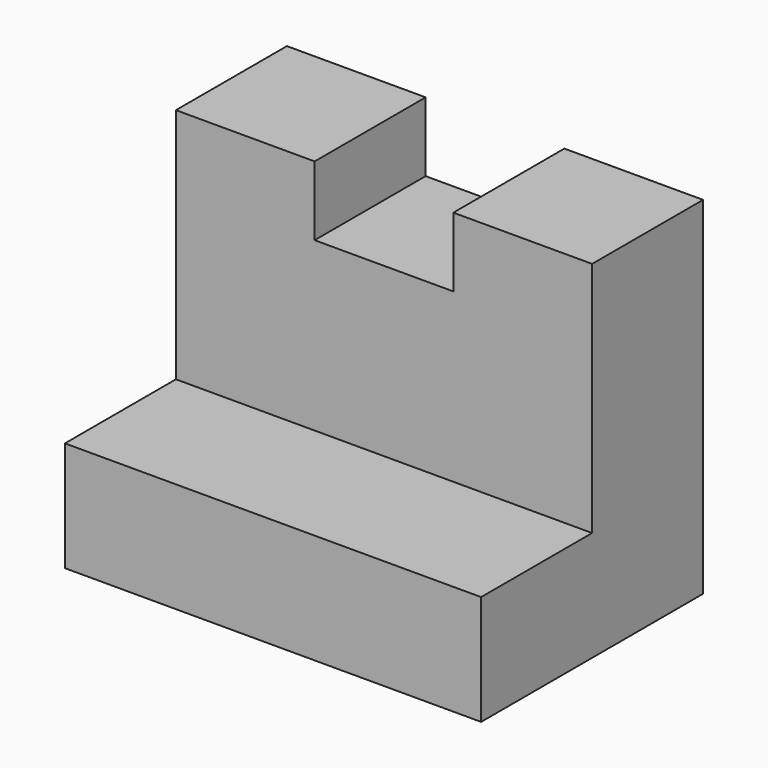
from build123d import *

# Parameters (mm, degrees)
F1_DEPTH = 25.4
F3_DEPTH = 12.7


with BuildPart() as f1:
    # F0 (on Front) → F1 (new body)
    with BuildSketch(Plane.XZ):
        Polygon((0, 31.75), (0, 0), (38.1, 0), (38.1, 31.75), (25.4, 31.75), (25.4, 25.4), (12.7, 25.4), (12.7, 31.75), align=None)
    extrude(amount=F1_DEPTH)

    # F2 (on face) → F3 (cut)
    with BuildSketch(Plane.XZ.offset(25.4)):
        Polygon((0, 31.75), (0, 10.059285), (38.1, 10.059285), (38.1, 31.75), (25.4, 31.75), (25.4, 25.4), (12.7, 25.4), (12.7, 31.75), align=None)
    extrude(amount=-F3_DEPTH, mode=Mode.SUBTRACT)


solid = f1.part
